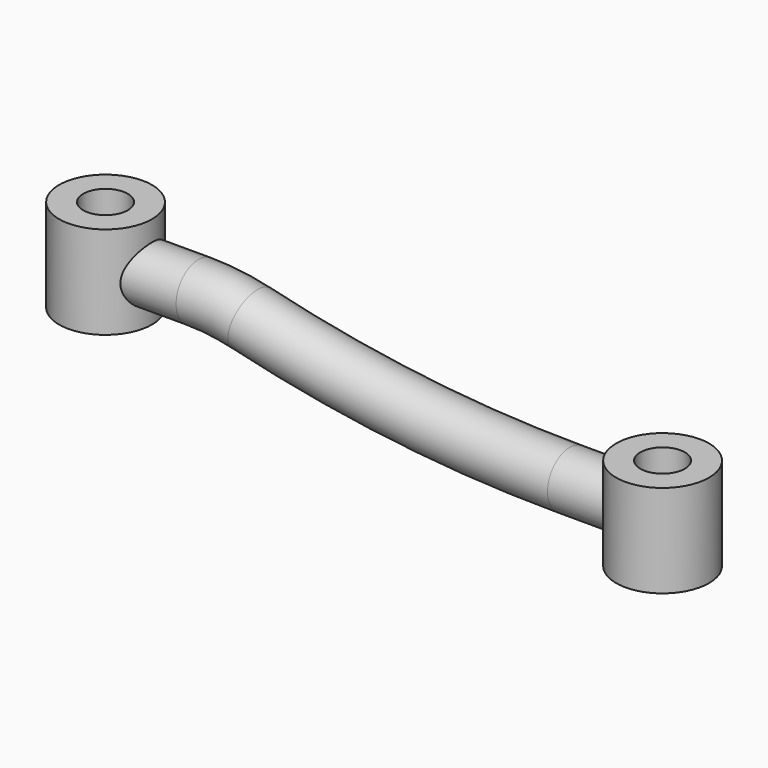
from build123d import *

# Parameters (mm, degrees)
F0_R     = 12.5
F0_R_2   = 6
F1_DEPTH = 25
F2_DEPTH = 12.5
F4_R     = 7.5
F6_DEPTH = 25


with BuildPart() as f1:
    # F0 (on Top) → F1 (new body)
    with BuildSketch(Plane.XY):
        Circle(F0_R)
        Circle(F0_R_2, mode=Mode.SUBTRACT)
    extrude(amount=F1_DEPTH)



with BuildPart() as f2:
    # F0 (on Top) → F2 (new body, symmetric)
    with BuildSketch(Plane.XY):
        with Locations((150, 0)):
            Circle(F0_R)
        with Locations((150, 0)):
            Circle(F0_R_2, mode=Mode.SUBTRACT)
    extrude(amount=F2_DEPTH, both=True)


with BuildPart() as f1_1:
    add(f1.part)

    add(f2.part)  # F5 merges F2
    # F5: sweep along a path in F3
    with BuildLine(Plane.XZ) as f5_path:
        Line((0, 12), (25, 12))
        ThreePointArc((25, 12), (32.1487132371, 11.5726103092), (39.1955835962, 10.2965299685))
        ThreePointArc((39.1955835962, 10.2965299685), (81.789999989, 2.5833332421), (125, 0))
        Line((125, 0), (150, 0))
    # F4 (on Right) → F5 (sweep)
    with BuildSketch(Plane.YZ):
        with Locations((0, 12)):
            Circle(F4_R)
    sweep(path=f5_path.line)

    # F0 (on Top) → F6 (cut, symmetric)
    with BuildSketch(Plane.XY):
        Circle(F0_R_2)
        with Locations((150, 0)):
            Circle(F0_R_2)
    extrude(amount=F6_DEPTH, both=True, mode=Mode.SUBTRACT)


solid = f1_1.part
